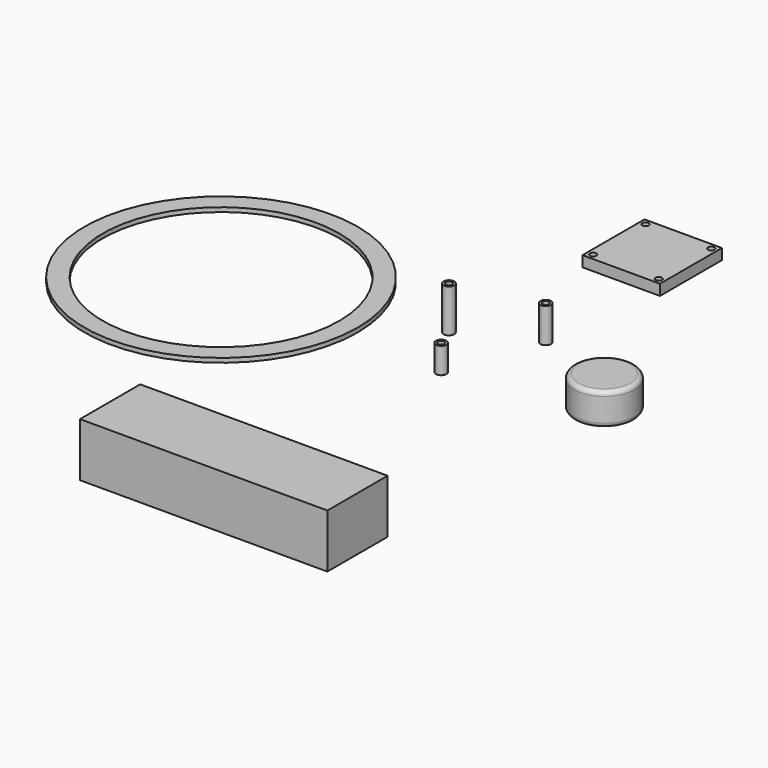
from build123d import *

# Parameters (mm, degrees)
F0_R      = 2.5
F0_R_2    = 1.5
F1_DEPTH  = 20
F2_R      = 14
F3_DEPTH  = 15
F4_R      = 2
F5_R      = 63.5
F5_R_2    = 55
F6_DEPTH  = 2
F7_R      = 2.5
F7_R_2    = 1.5
F8_DEPTH  = 16
F9_W      = 115
F9_H      = 35
F10_DEPTH = 25
F11_R     = 2.5
F11_R_2   = 1.5
F12_DEPTH = 12
F13_W     = 36
F13_H     = 36
F13_R     = 1.5
F14_DEPTH = 5


with BuildPart() as f1:
    # F0 (on Top) → F1 (new body)
    with BuildSketch(Plane.XY):
        with Locations((-54.148182, 35.155911)):
            Circle(F0_R)
        with Locations((-54.148182, 35.155911)):
            Circle(F0_R_2, mode=Mode.SUBTRACT)
    extrude(amount=F1_DEPTH)


with BuildPart() as f3:
    # F2 (on Top) → F3 (new body)
    with BuildSketch(Plane.XY):
        with Locations((28.238637, 22.471592)):
            Circle(F2_R)
    extrude(amount=F3_DEPTH)

    # F4
    f4_edges = [f3.edges().sort_by_distance(p)[0] for p in [
        (14.238637, 22.471592, 15),
        (14.238637, 22.471592, 0),
    ]]
    fillet(f4_edges, radius=F4_R)


with BuildPart() as f6:
    # F5 (on Top) → F6 (new body)
    with BuildSketch(Plane.XY):
        with Locations((-143.380687, 14.318183)):
            Circle(F5_R)
        with Locations((-143.380687, 14.318183)):
            Circle(F5_R_2, mode=Mode.SUBTRACT)
    extrude(amount=F6_DEPTH)


with BuildPart() as f8:
    # F7 (on Top) → F8 (new body)
    with BuildSketch(Plane.XY):
        with Locations((-21.877097, 51.086083)):
            Circle(F7_R)
        with Locations((-21.877097, 51.086083)):
            Circle(F7_R_2, mode=Mode.SUBTRACT)
    extrude(amount=F8_DEPTH)


with BuildPart() as f10:
    # F9 (on Top) → F10 (new body)
    with BuildSketch(Plane.XY):
        with Locations((-28.567261, -121.795776)):
            Rectangle(F9_W, F9_H)
    extrude(amount=F10_DEPTH)


with BuildPart() as f12:
    # F11 (on Top) → F12 (new body)
    with BuildSketch(Plane.XY):
        with Locations((-36.776777, 8.963598)):
            Circle(F11_R)
        with Locations((-36.776777, 8.963598)):
            Circle(F11_R_2, mode=Mode.SUBTRACT)
    extrude(amount=F12_DEPTH)


with BuildPart() as f14:
    # F13 (on Top) → F14 (new body)
    with BuildSketch(Plane.XY):
        with Locations((-30.157481, 123.278062)):
            Rectangle(F13_W, F13_H)
        with Locations((-45.407481, 108.028062)):
            Circle(F13_R, mode=Mode.SUBTRACT)
        with Locations((-14.907481, 108.028062)):
            Circle(F13_R, mode=Mode.SUBTRACT)
        with Locations((-45.407481, 138.528062)):
            Circle(F13_R, mode=Mode.SUBTRACT)
        with Locations((-14.907481, 138.528062)):
            Circle(F13_R, mode=Mode.SUBTRACT)
    extrude(amount=F14_DEPTH)


solid = Compound([f1.part, f3.part, f6.part, f8.part, f10.part, f12.part, f14.part])
